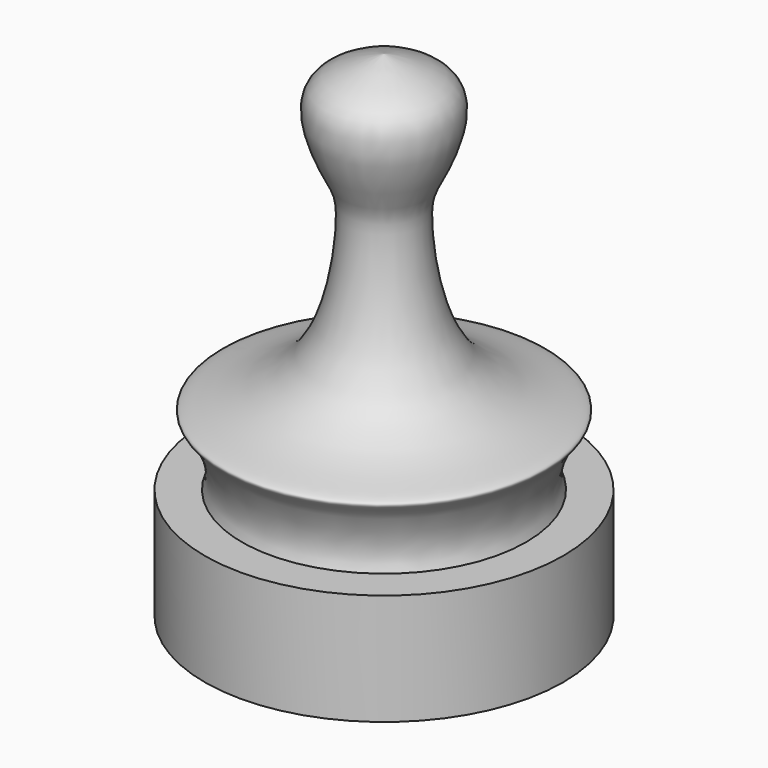
from build123d import *


with BuildPart() as part:
    # Sketch → Revolution (revolve)
    with BuildSketch(Plane.XZ):
        with BuildLine():
            Line((-5.75, 0), (-5.75, 3))
            Line((-5.75, 3), (0, 3))
            Line((0, 3), (0, 20))
            add(Edge.make_bspline(
                [(-5.75, 4.5), (-5.416941, 5.207053), (-6.165367, 7.274105), (-7.156686, 7.405588), (-2.24555, 8.343152), (-1.296315, 14.59573), (-1.789815, 15.465475), (-2.592544, 17.125224), (-2.811129, 19.163936), (0, 20.024207), (0, 20.024207), (0, 20)],
                knots=[0, 0, 0, 0, 0.111111, 0.222222, 0.333333, 0.444444, 0.555556, 0.666667, 0.777778, 0.888889, 1, 1, 1, 1], degree=3))
            Line((-5.75, 4.5), (-7.25, 4.5))
            Line((-7.25, 4.5), (-7.25, 0))
            Line((-7.25, 0), (-5.75, 0))
        make_face()
    revolve(axis=Axis((0, 0, 0), (0, 0, 1)))


solid = part.part
